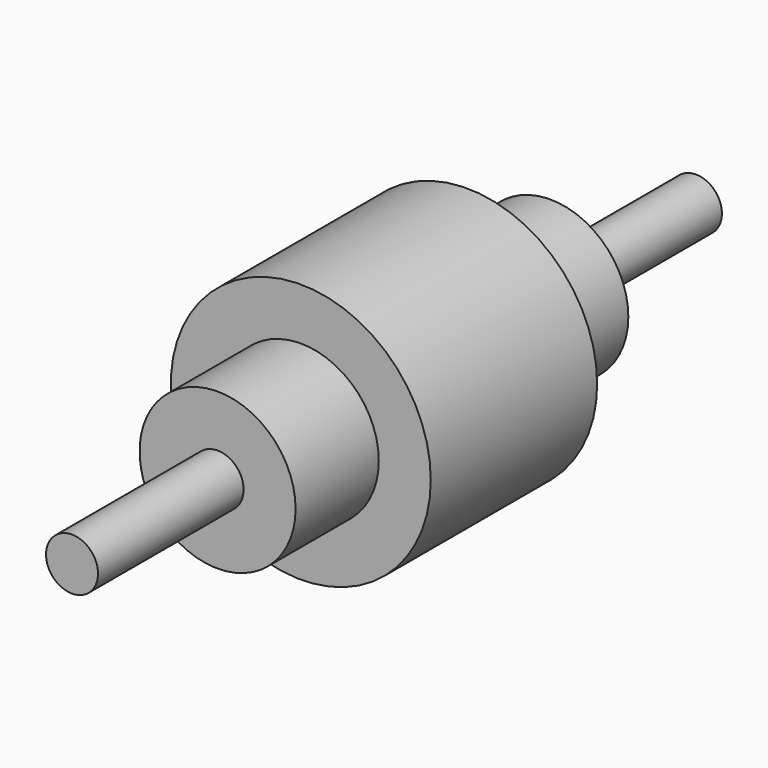
from build123d import *

# Parameters (mm, degrees)
F0_R     = 10
F1_DEPTH = 150
F0_R_2   = 30
F2_DEPTH = 80
F0_R_3   = 50
F3_DEPTH = 40


with BuildPart() as f1:
    # F0 (on Front) → F1 (new body)
    with BuildSketch(Plane.XZ):
        Circle(F0_R)
    extrude(amount=F1_DEPTH)

    # F0 (on Front) → F2 (join)
    with BuildSketch(Plane.XZ):
        Circle(F0_R_2)
        Circle(F0_R, mode=Mode.SUBTRACT)
    extrude(amount=F2_DEPTH)

    # F0 (on Front) → F3 (join)
    with BuildSketch(Plane.XZ):
        Circle(F0_R_3)
        Circle(F0_R_2, mode=Mode.SUBTRACT)
    extrude(amount=F3_DEPTH)

    # F4: F1 across plane


with BuildPart() as f1_1:
    add(f1.part)
    add(f1.part.mirror(Plane.XZ))


solid = f1_1.part
